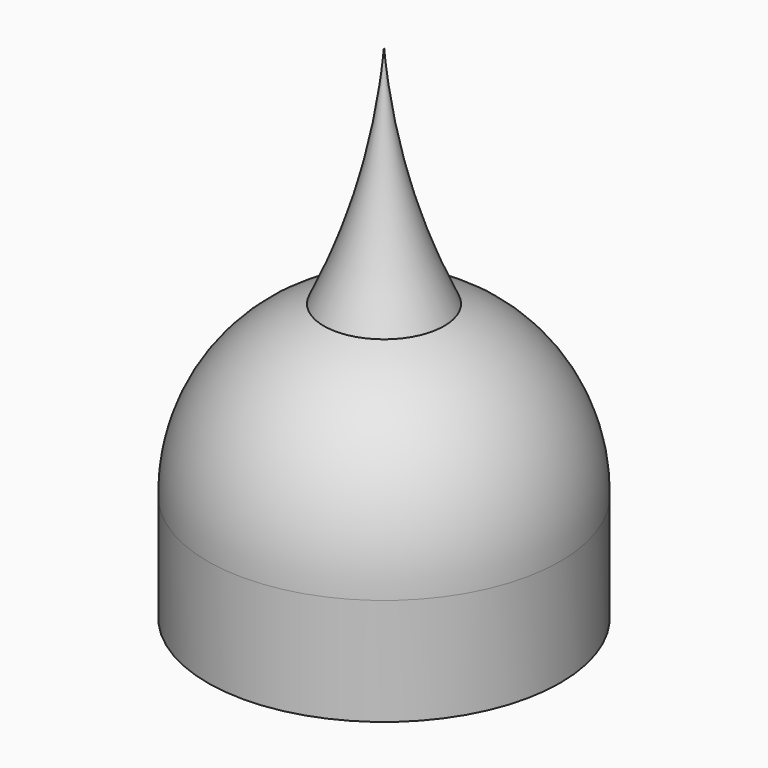
from build123d import *

# Parameters (mm, degrees)
F3_ANGLE = 90


with BuildPart() as f1:
    # F0 (on Top) → F1 (revolve)
    with BuildSketch(Plane.XY):
        with BuildLine():
            Line((0, 8.9), (0, 7.9))
            Line((0, 7.9), (2.4, 7.9))
            Line((2.4, 7.9), (2.4, 6.8))
            Line((2.4, 6.8), (5.4, 6.8))
            Line((5.4, 6.8), (5.4, 7.9))
            ThreePointArc((5.4, 7.9), (9.5153331571, 6.7434437053), (12.4257006262, 3.6124134192))
            Line((12.4257006262, 3.6124134192), (13.0271804842, 2.4426089354))
            Line((13.0271804842, 2.4426089354), (17.9327297956, 0.6101466133))
            Line((17.9327297956, 0.6101466133), (20.8739452064, 0))
            Line((20.8739452064, 0), (25.4, 0))
            ThreePointArc((25.4, 0), (19.537082279, 0.996970145), (13.951692761, 3.0393162482))
            ThreePointArc((13.951692761, 3.0393162482), (10.617032549, 7.3430021373), (5.4, 8.9))
            Line((5.4, 8.9), (0, 8.9))
        make_face()
    revolve(axis=Axis((12.5827532146, 0, 0), (1, 0, 0)))


with BuildPart() as f1_1:
    # F3: moved
    add(f1.part.rotate(Axis((0, 0, 0), (0, -1, 0)), F3_ANGLE))


solid = f1_1.part
